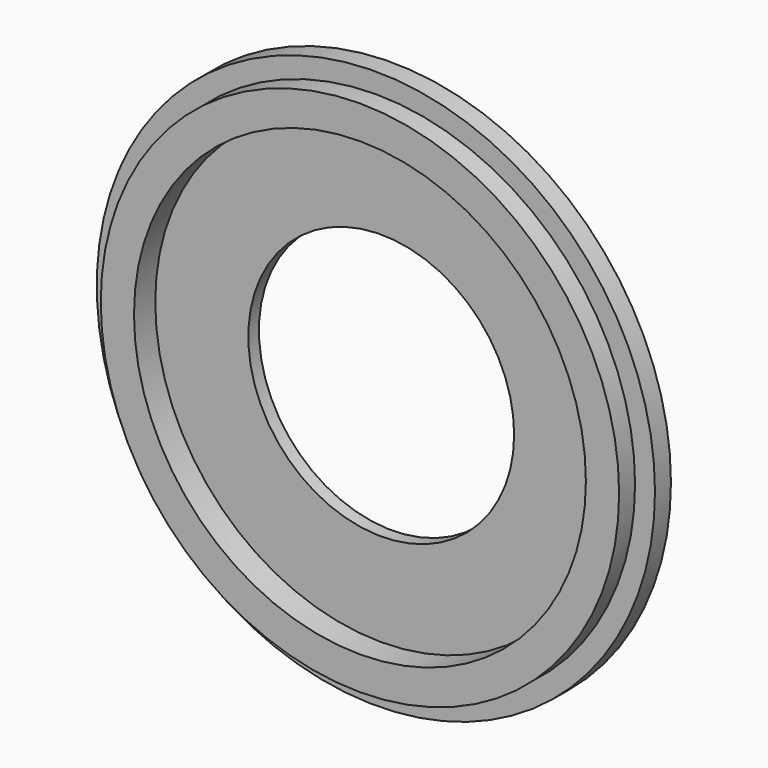
from build123d import *

# Parameters (mm, degrees)
F0_R     = 42
F1_DEPTH = 6
F2_R     = 34
F3_DEPTH = 4
F4_R     = 20
F5_DEPTH = 2
F6_R     = 42
F6_R_2   = 39
F7_DEPTH = 3


with BuildPart() as f1:
    # F0 (on Front) → F1 (new body)
    with BuildSketch(Plane.XZ):
        Circle(F0_R)
    extrude(amount=-F1_DEPTH)

    # F2 (on face) → F3 (cut)
    with BuildSketch(Plane.XZ):
        Circle(F2_R)
    extrude(amount=-F3_DEPTH, mode=Mode.SUBTRACT)

    # F4 (on face) → F5 (cut)
    with BuildSketch(Plane.XZ.offset(-4)):
        Circle(F4_R)
    extrude(amount=-F5_DEPTH, mode=Mode.SUBTRACT)

    # F6 (on face) → F7 (cut)
    with BuildSketch(Plane.XZ):
        Circle(F6_R)
        Circle(F6_R_2, mode=Mode.SUBTRACT)
    extrude(amount=-F7_DEPTH, mode=Mode.SUBTRACT)


solid = f1.part
